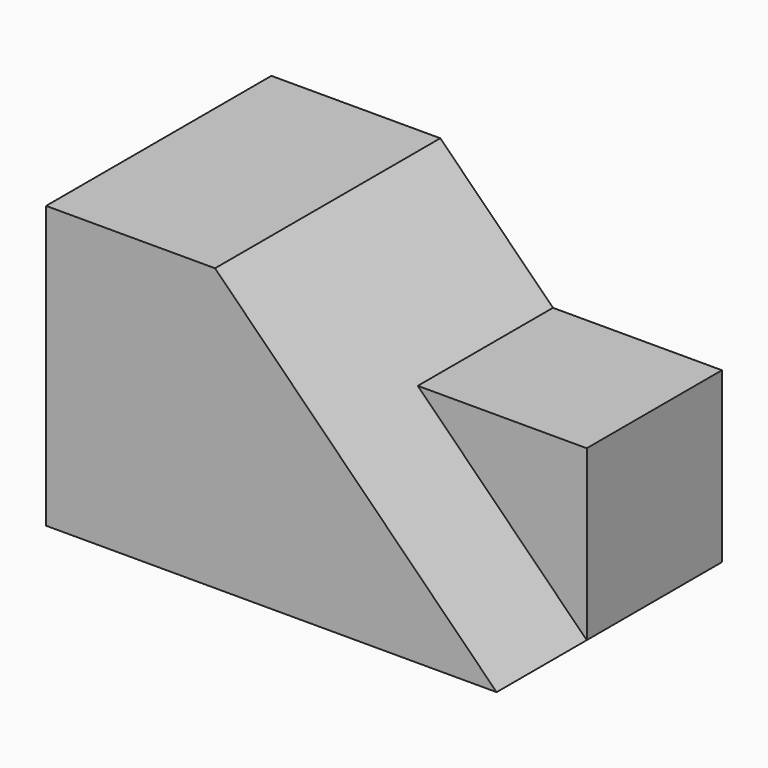
from build123d import *

# Parameters (mm, degrees)
F0_W     = 31.75
F0_H     = 31.75
F1_DEPTH = 50.8
F3_DEPTH = 12.7
F5_DEPTH = 19.05


with BuildPart() as f1:
    # F0 (on Right) → F1 (new body)
    with BuildSketch(Plane.YZ):
        with Locations((15.875, 15.875)):
            Rectangle(F0_W, F0_H)
    extrude(amount=F1_DEPTH)

    # F2 (on face) → F3 (cut)
    with BuildSketch(Plane.XZ):
        Polygon((19.05, 31.75), (50.8, 0), (50.8, 31.75), align=None)
    extrude(amount=-F3_DEPTH, mode=Mode.SUBTRACT)

    # F4 (on face) → F5 (cut)
    with BuildSketch(Plane.XZ.offset(-12.7)):
        Polygon((19.05, 31.75), (31.75, 19.05), (50.8, 19.05), (50.8, 31.75), align=None)
    extrude(amount=-F5_DEPTH, mode=Mode.SUBTRACT)


solid = f1.part
